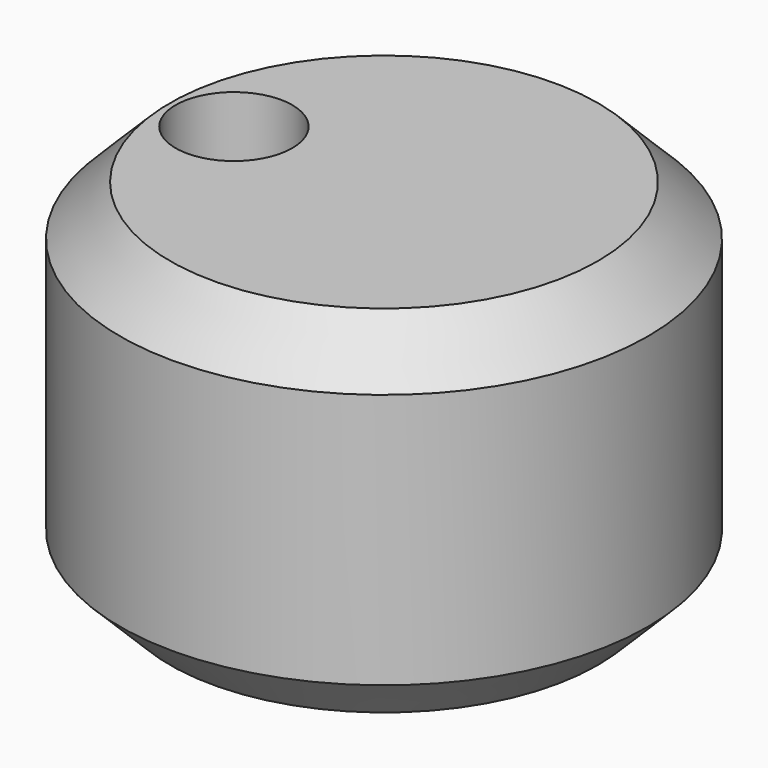
from build123d import *

# Parameters (mm, degrees)
F0_R     = 4.75
F1_DEPTH = 6.4
F2_R     = 1.05
F3_DEPTH = 6.401
F4_SIZE  = 0.9


with BuildPart() as f1:
    # F0 (on Top) → F1 (new body)
    with BuildSketch(Plane.XY):
        Circle(F0_R)
    extrude(amount=F1_DEPTH)

    # F2 (on face) → F3 (cut, through all)
    with BuildSketch(Plane.XY.offset(6.4)):
        with Locations((-2.7, 0)):
            Circle(F2_R)
    extrude(amount=-F3_DEPTH, mode=Mode.SUBTRACT)

    # F4
    f4_edges = [f1.edges().sort_by_distance(p)[0] for p in [
        (-4.75, 0, 6.4),
        (-4.75, 0, 0),
    ]]
    chamfer(f4_edges, length=F4_SIZE)


solid = f1.part
